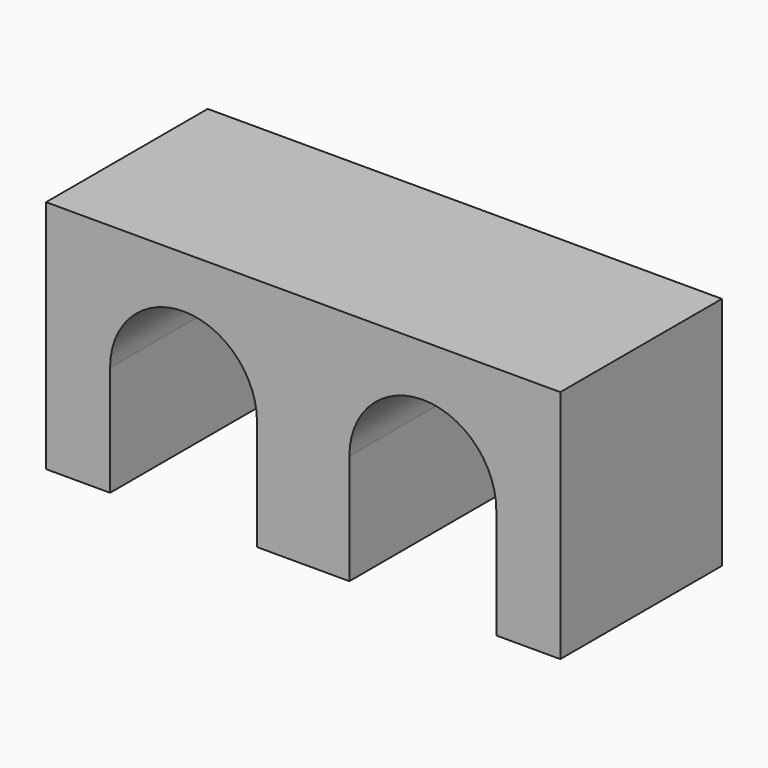
from build123d import *

# Parameters (mm, degrees)
F0_W     = 177.8
F0_H     = 69.85
F1_DEPTH = 81.28
F3_W     = 50.8
F3_H     = 38.1
F4_DEPTH = 69.85
F5_DEPTH = 69.85


with BuildPart() as f1:
    # F0 (on Top) → F1 (new body)
    with BuildSketch(Plane.XY):
        Rectangle(F0_W, F0_H)
    extrude(amount=F1_DEPTH)

    # F3 (on offset) → F4 (cut)
    with BuildSketch(Plane.XZ.offset(34.925)):
        with BuildLine():
            ThreePointArc((-15.970058, 38.1), (-41.370058, 63.5), (-66.770058, 38.1))
            Line((-66.770058, 38.1), (-15.970058, 38.1))
        make_face()
        with Locations((-41.370058, 19.05)):
            Rectangle(F3_W, F3_H)
    extrude(amount=-F4_DEPTH, mode=Mode.SUBTRACT)

    # F3 (on offset) → F5 (cut)
    with BuildSketch(Plane.XZ.offset(34.925)):
        with Locations((41.370058, 19.05)):
            Rectangle(F3_W, F3_H)
        with BuildLine():
            Line((15.970058, 38.1), (66.770058, 38.1))
            ThreePointArc((66.770058, 38.1), (41.370058, 63.5), (15.970058, 38.1))
        make_face()
    extrude(amount=-F5_DEPTH, mode=Mode.SUBTRACT)


solid = f1.part
